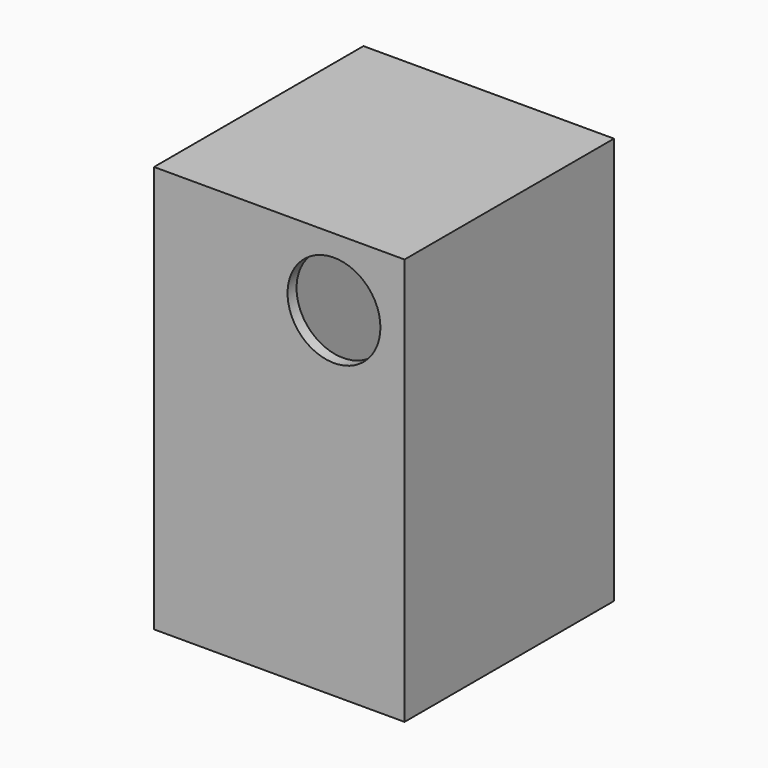
from build123d import *

# Parameters (mm, degrees)
F1_W      = 20
F1_H      = 300
F2_DEPTH  = 200
F0_W      = 200
F0_H      = 300
F3_DEPTH  = 1.5
F4_W      = 22.1463561058
F4_H      = 300
F5_DEPTH  = 200
F6_W      = 200
F6_H      = 300
F7_DEPTH  = 9
F8_W      = 200
F8_H      = 209
F9_DEPTH  = 25
F10_R     = 37.0701897266
F11_DEPTH = 25


with BuildPart() as f2:
    # F1 (on face) → F2 (new body)
    with BuildSketch(Plane.XZ):
        with Locations((10, 150)):
            Rectangle(F1_W, F1_H)
    extrude(amount=F2_DEPTH)

    # F0 (on Front) + F1 (on face) → F3 (join)
    with BuildSketch(Plane.XZ):
        with Locations((100, 150)):
            Rectangle(F0_W, F0_H)
    with BuildSketch(Plane.XZ):
        with Locations((10, 150)):
            Rectangle(F1_W, F1_H)
    extrude(amount=F3_DEPTH)

    # F4 (on face) → F5 (join)
    with BuildSketch(Plane.XZ.offset(1.5)):
        with Locations((188.9268219471, 150)):
            Rectangle(F4_W, F4_H)
    extrude(amount=F5_DEPTH)

    # F6 (on face) → F7 (join)
    with BuildSketch(Plane.XZ.offset(200)):
        with Locations((100, 150)):
            Rectangle(F6_W, F6_H)
    extrude(amount=F7_DEPTH)

    # F8 (on face) → F9 (join)
    with BuildSketch(Plane.XY.offset(300)):
        with Locations((100, -104.5)):
            Rectangle(F8_W, F8_H)
    extrude(amount=F9_DEPTH)

    # F10 (on face) → F11 (cut)
    with BuildSketch(Plane.XZ.offset(209)):
        with Locations((143.6603814363, 270.9373235703)):
            Circle(F10_R)
    extrude(amount=-F11_DEPTH, mode=Mode.SUBTRACT)


solid = f2.part
